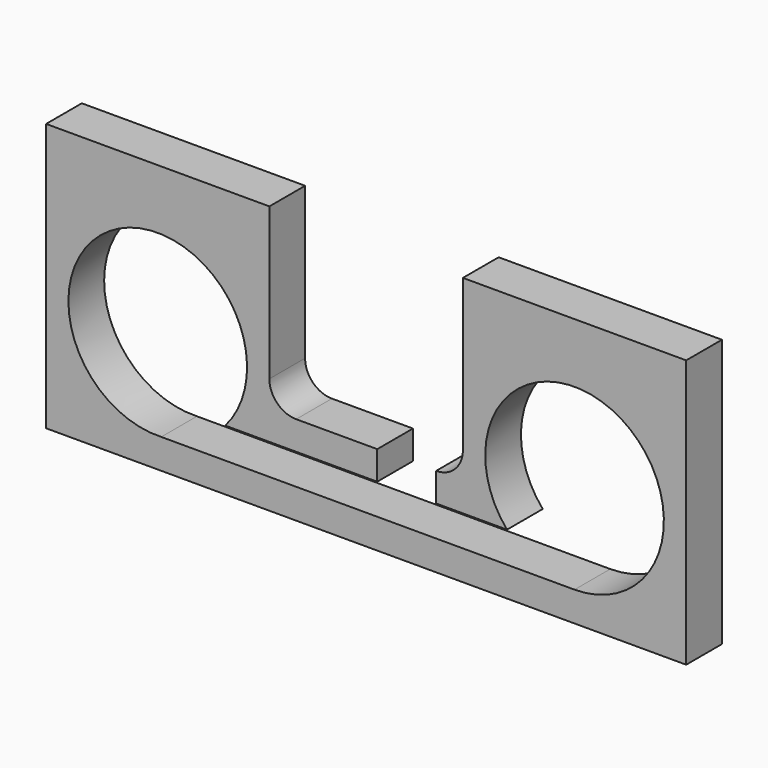
from build123d import *

# Parameters (mm, degrees)
F0_W     = 273.05
F0_H     = 114.3
F1_DEPTH = 19.05
F2_R     = 38.1
F3_DEPTH = 25.4
F5_DEPTH = 25.4
F7_DEPTH = 25.4


with BuildPart() as f1:
    # F0 (on Front) → F1 (new body)
    with BuildSketch(Plane.XZ):
        with Locations((136.525, 57.15)):
            Rectangle(F0_W, F0_H)
    extrude(amount=F1_DEPTH)

    # F2 (on face) → F3 (cut)
    with BuildSketch(Plane.XZ.offset(19.05)):
        with Locations((47.625, 50.8)):
            Circle(F2_R)
        with Locations((225.425, 50.8)):
            Circle(F2_R)
    extrude(amount=-F3_DEPTH, mode=Mode.SUBTRACT)

    # F4 (on face) → F5 (cut)
    with BuildSketch(Plane.XZ.offset(19.05)):
        with BuildLine():
            Line((177.8, 114.3), (95.25, 114.3))
            Line((95.25, 114.3), (95.25, 49.53))
            ThreePointArc((95.25, 49.53), (98.597769, 41.447769), (106.68, 38.1))
            Line((106.68, 38.1), (166.37, 38.1))
            ThreePointArc((166.37, 38.1), (174.452231, 41.447769), (177.8, 49.53))
            Line((177.8, 49.53), (177.8, 114.3))
        make_face()
    extrude(amount=-F5_DEPTH, mode=Mode.SUBTRACT)

    # F6 (on face) → F7 (cut)
    with BuildSketch(Plane.XZ.offset(19.05)):
        Polygon((166.37, 25.869032), (166.37, 38.1), (141.262531, 38.1), (141.262531, 25.869032), (76.435707, 25.869032), (46.121879, 12.729662), (225.418697, 12.700001), (196.614293, 25.869032), align=None)
    extrude(amount=-F7_DEPTH, mode=Mode.SUBTRACT)


solid = f1.part
